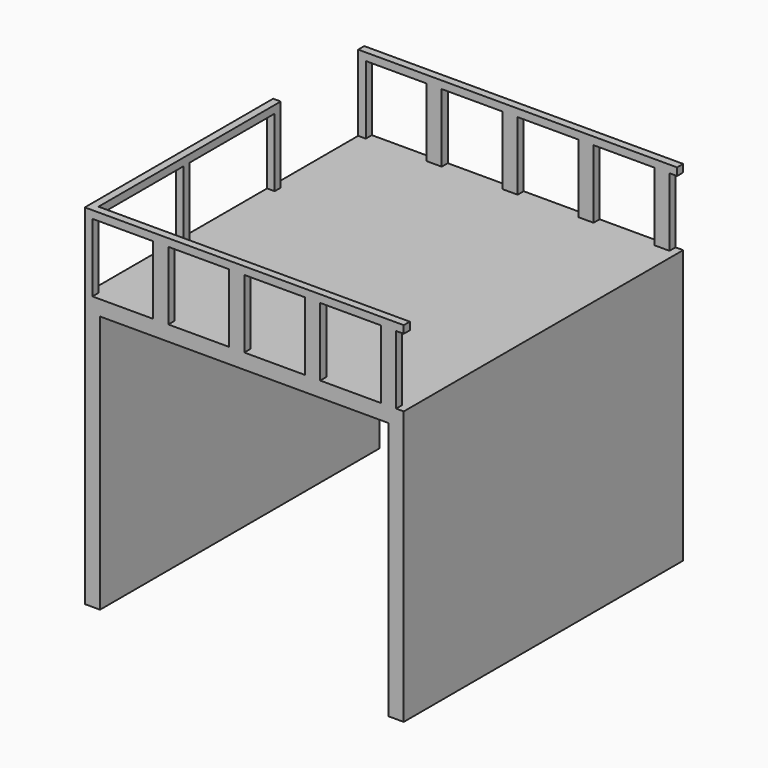
from build123d import *

# Parameters (mm, degrees)
F1_DEPTH = 2300
F4_DEPTH = 500
F5_W     = 400
F5_H     = 450
F6_DEPTH = 2300.001
F7_W     = 700
F7_H     = 450
F8_DEPTH = 50


with BuildPart() as f1:
    # F0 (on Front) → F1 (new body)
    with BuildSketch(Plane.XZ):
        Polygon((-1050, 1800), (-1050, 0), (-950, 0), (-950, 1700), (0, 1700), (0, 1800), align=None)
    extrude(amount=F1_DEPTH)

    # F2: F1 across plane


with BuildPart() as f1_1:
    add(f1.part)
    add(f1.part.mirror(Plane.YZ))

    # F3 (on face) → F4 (join)
    with BuildSketch(Plane.XY.offset(1800)):
        Polygon((-1050, -2300), (1050, -2300), (1050, -2250), (-1000, -2250), (-1000, -750), (-1050, -750), align=None)
        Polygon((1050, -50), (1050, 0), (-1050, 0), (-1050, -50), (-1000, -50), align=None)
    extrude(amount=F4_DEPTH)

    # F5 (on face) → F6 (cut, through all)
    with BuildSketch(Plane.XZ.offset(2300)):
        with Locations((-800, 2025)):
            Rectangle(F5_W, F5_H)
        with Locations((-300, 2025)):
            Rectangle(F5_W, F5_H)
        with Locations((200, 2025)):
            Rectangle(F5_W, F5_H)
        with Locations((700, 2025)):
            Rectangle(F5_W, F5_H)
        with Locations((1200, 2025)):
            Rectangle(F5_W, F5_H)
    extrude(amount=-F6_DEPTH, mode=Mode.SUBTRACT)

    # F7 (on face) → F8 (cut, through all)
    with BuildSketch(Plane.YZ.offset(-1000)):
        with Locations((-1900, 2025)):
            Rectangle(F7_W, F7_H)
        with Locations((-1150, 2025)):
            Rectangle(F7_W, F7_H)
    extrude(amount=-F8_DEPTH, mode=Mode.SUBTRACT)


solid = f1_1.part
